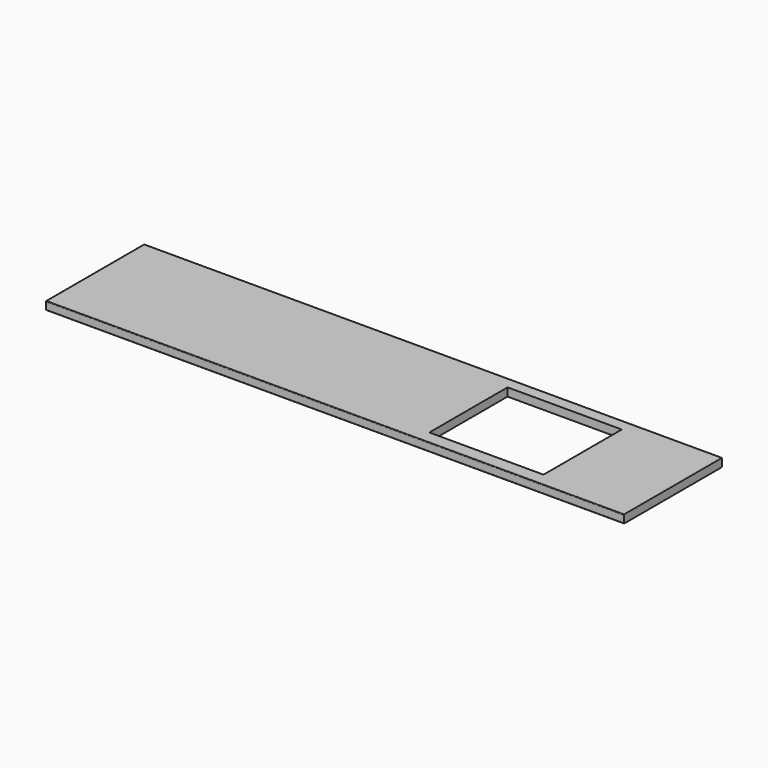
from build123d import *

# Parameters (mm, degrees)
F0_W      = 45.2956259251
F0_H      = 35.350099206
F1_DEPTH  = 40
F2_DEPTH  = 2900
F3_DEPTH  = 600
F4_DEPTH  = 2850
F5_DEPTH  = 50
F6_DEPTH  = 25
F7_DEPTH  = 10
F8_DEPTH  = 5
F9_DEPTH  = 2
F10_DEPTH = 1
F11_R     = 3
F12_W     = 559.0722560883
F12_H     = 383.7698698044
F13_DEPTH = 40
F14_DEPTH = 40
F15_DEPTH = 25
F16_DEPTH = 30
F17_DEPTH = 400
F18_DEPTH = 60
F19_DEPTH = 40
F20_DEPTH = 250
F21_DEPTH = 50


with BuildPart() as f1:
    # F0 (on Top) → F1 (new body)
    with BuildSketch(Plane.XY):
        with Locations((22.6478129625, -17.675049603)):
            Rectangle(F0_W, F0_H)
    extrude(amount=F1_DEPTH)

    # F2 (add): a face of the model
    f2_faces = [f1.faces().sort_by_distance(p)[0] for p in [
        (0, -17.675049603, 20),
    ]]
    extrude(f2_faces, amount=-F2_DEPTH)

    # F3 (add): a face of the model
    f3_faces = [f1.faces().sort_by_distance(p)[0] for p in [
        (1450, 0, 20),
    ]]
    extrude(f3_faces, amount=-F3_DEPTH)

    # F4 (add): a face of the model
    f4_faces = [f1.faces().sort_by_distance(p)[0] for p in [
        (0, -300, 20),
    ]]
    extrude(f4_faces, amount=-F4_DEPTH)

    # F5 (cut): a face of the model
    f5_faces = [f1.faces().sort_by_distance(p)[0] for p in [
        (2900, -300, 20),
    ]]
    extrude(f5_faces, amount=-F5_DEPTH, mode=Mode.SUBTRACT)

    # F6 (cut): a face of the model
    f6_faces = [f1.faces().sort_by_distance(p)[0] for p in [
        (2850, -300, 20),
    ]]
    extrude(f6_faces, amount=-F6_DEPTH, mode=Mode.SUBTRACT)

    # F7 (add): a face of the model
    f7_faces = [f1.faces().sort_by_distance(p)[0] for p in [
        (2825, -300, 20),
    ]]
    extrude(f7_faces, amount=F7_DEPTH)

    # F8 (cut): a face of the model
    f8_faces = [f1.faces().sort_by_distance(p)[0] for p in [
        (2835, -300, 20),
    ]]
    extrude(f8_faces, amount=-F8_DEPTH, mode=Mode.SUBTRACT)

    # F9 (add): a face of the model
    f9_faces = [f1.faces().sort_by_distance(p)[0] for p in [
        (2830, -300, 20),
    ]]
    extrude(f9_faces, amount=F9_DEPTH)

    # F10 (cut): a face of the model
    f10_faces = [f1.faces().sort_by_distance(p)[0] for p in [
        (2832, -300, 20),
    ]]
    extrude(f10_faces, amount=-F10_DEPTH, mode=Mode.SUBTRACT)

    # F11
    f11_edges = [f1.edges().sort_by_distance(p)[0] for p in [
        (1415.5, -600, 40),
        (0, -300, 40),
        (0, -600, 20),
        (1415.5, -600, 0),
        (0, -300, 0),
    ]]
    fillet(f11_edges, radius=F11_R)

    # F12 (on face) → F13 (cut)
    with BuildSketch(Plane.XY.offset(40)):
        with Locations((2405.6543111801, -302.7966022491)):
            Rectangle(F12_W, F12_H)
    extrude(amount=-F13_DEPTH, mode=Mode.SUBTRACT)

    # F14 (cut): a face of the model
    f14_faces = [f1.faces().sort_by_distance(p)[0] for p in [
        (2405.6543111801, -494.6815371513, 20),
    ]]
    extrude(f14_faces, amount=-F14_DEPTH, mode=Mode.SUBTRACT)

    # F15 (cut): a face of the model
    f15_faces = [f1.faces().sort_by_distance(p)[0] for p in [
        (2405.6543111801, -110.911667347, 20),
    ]]
    extrude(f15_faces, amount=-F15_DEPTH, mode=Mode.SUBTRACT)

    # F16 (cut): a face of the model
    f16_faces = [f1.faces().sort_by_distance(p)[0] for p in [
        (2405.6543111801, -85.911667347, 20),
    ]]
    extrude(f16_faces, amount=-F16_DEPTH, mode=Mode.SUBTRACT)

    # F17 (cut): a face of the model
    f17_faces = [f1.faces().sort_by_distance(p)[0] for p in [
        (2126.118183136, -295.2966022491, 20),
    ]]
    extrude(f17_faces, amount=-F17_DEPTH, mode=Mode.SUBTRACT)

    # F18 (add): a face of the model
    f18_faces = [f1.faces().sort_by_distance(p)[0] for p in [
        (1726.118183136, -295.2966022491, 20),
    ]]
    extrude(f18_faces, amount=F18_DEPTH)

    # F19 (add): a face of the model
    f19_faces = [f1.faces().sort_by_distance(p)[0] for p in [
        (1786.118183136, -295.2966022491, 20),
    ]]
    extrude(f19_faces, amount=F19_DEPTH)

    # F20 (add): a face of the model
    f20_faces = [f1.faces().sort_by_distance(p)[0] for p in [
        (2685.1904392242, -295.2966022491, 20),
    ]]
    extrude(f20_faces, amount=F20_DEPTH)

    # F21 (add): a face of the model
    f21_faces = [f1.faces().sort_by_distance(p)[0] for p in [
        (2435.1904392242, -295.2966022491, 20),
    ]]
    extrude(f21_faces, amount=F21_DEPTH)


solid = f1.part
